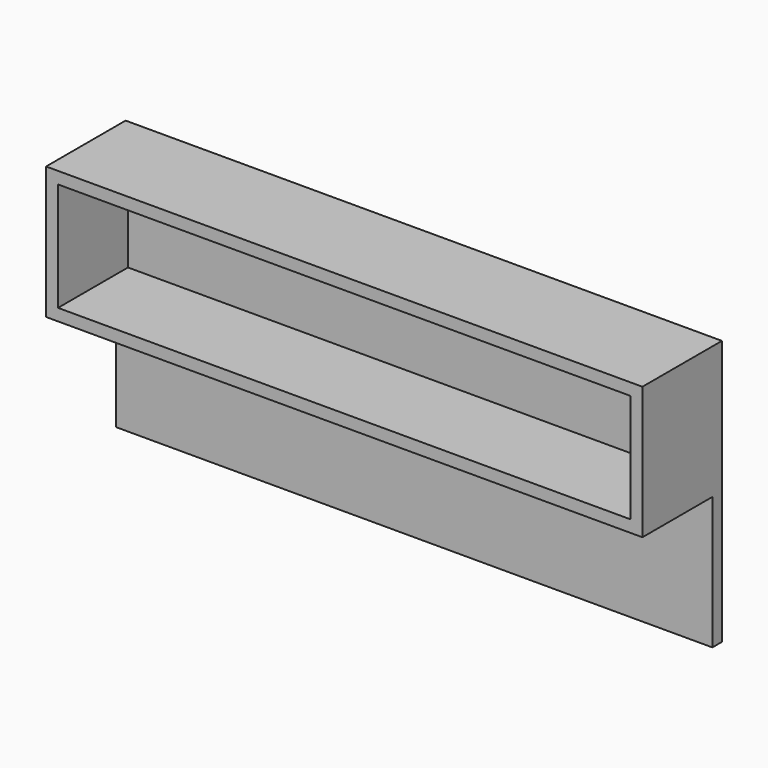
from build123d import *

# Parameters (mm, degrees)
F0_W     = 900
F0_H     = 200
F0_W_2   = 864
F0_H_2   = 164
F1_DEPTH = 150
F2_DEPTH = 18
F3_DEPTH = 18


with BuildPart() as f1:
    # F0 (on Front) → F1 (new body)
    with BuildSketch(Plane.XZ):
        with Locations((311.750185, 217.832059)):
            Rectangle(F0_W, F0_H)
        with Locations((311.750185, 217.832059)):
            Rectangle(F0_W_2, F0_H_2, mode=Mode.SUBTRACT)
    extrude(amount=F1_DEPTH)

    # F0 (on Front) → F2 (join)
    with BuildSketch(Plane.XZ):
        with Locations((311.750185, 17.832059)):
            Rectangle(F0_W, F0_H)
    extrude(amount=F2_DEPTH)

    # F0 (on Front) → F3 (join)
    with BuildSketch(Plane.XZ):
        with Locations((311.750185, 217.832059)):
            Rectangle(F0_W_2, F0_H_2)
    extrude(amount=F3_DEPTH)


solid = f1.part
